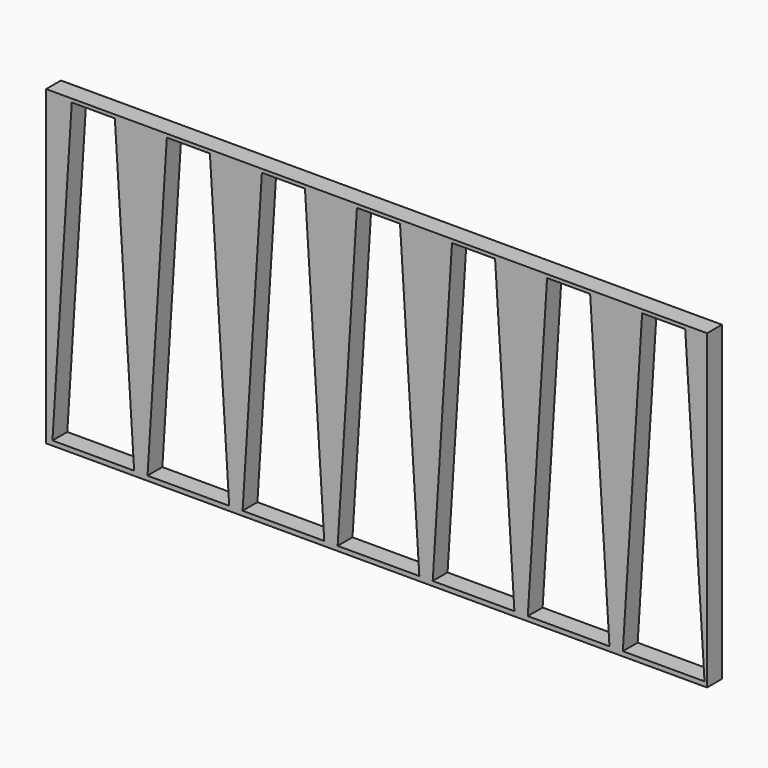
from build123d import *

# Parameters (mm, degrees)
F0_W     = 890
F0_H     = 420
F1_DEPTH = 25
F3_DEPTH = 25


with BuildPart() as f1:
    # F0 (on Front) → F1 (new body)
    with BuildSketch(Plane.XZ):
        Rectangle(F0_W, F0_H)
    extrude(amount=F1_DEPTH)

    # F2 (on face) → F3 (cut)
    with BuildSketch(Plane.XZ.offset(25)):
        Polygon((-436.426692, -203.834898), (-381.426692, -203.834898), (-326.426692, -203.834898), (-352.426692, 205.339882), (-381.426692, 205.339882), (-410.426692, 205.339882), align=None)
        Polygon((-308.426692, -203.834898), (-253.426692, -203.834898), (-198.426692, -203.834898), (-224.426692, 205.339882), (-253.426692, 205.339882), (-282.426692, 205.339882), align=None)
        Polygon((-180.426692, -203.834898), (-125.426692, -203.834898), (-70.426692, -203.834898), (-96.426692, 205.339882), (-125.426692, 205.339882), (-154.426692, 205.339882), align=None)
        Polygon((-52.426692, -203.834898), (2.573308, -203.834898), (57.573308, -203.834898), (31.573308, 205.339882), (2.573308, 205.339882), (-26.426692, 205.339882), align=None)
        Polygon((75.573308, -203.834898), (130.573308, -203.834898), (185.573308, -203.834898), (159.573308, 205.339882), (130.573308, 205.339882), (101.573308, 205.339882), align=None)
        Polygon((203.573308, -203.834898), (258.573308, -203.834898), (313.573308, -203.834898), (287.573308, 205.339882), (258.573308, 205.339882), (229.573308, 205.339882), align=None)
        Polygon((331.573308, -203.834898), (386.573308, -203.834898), (441.573308, -203.834898), (415.573308, 205.339882), (386.573308, 205.339882), (357.573308, 205.339882), align=None)
    extrude(amount=-F3_DEPTH, mode=Mode.SUBTRACT)


solid = f1.part
